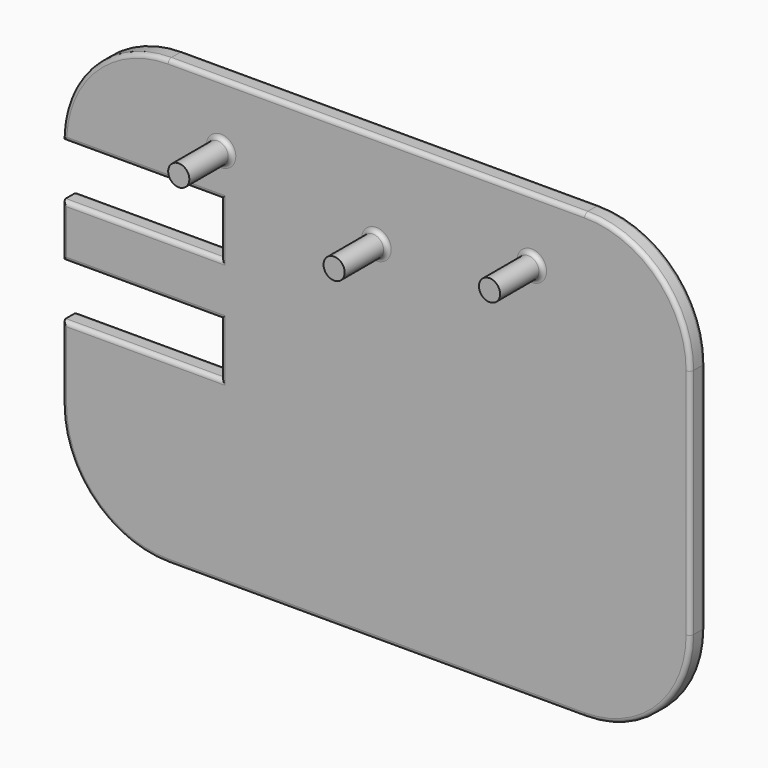
from build123d import *

# Parameters (mm, degrees)
F1_DEPTH = 9
F2_R     = 5
F3_DEPTH = 25
F4_W     = 75
F4_H     = 25
F5_DEPTH = 25
F6_R     = 2


with BuildPart() as f1:
    # F0 (on Front) → F1 (new body)
    with BuildSketch(Plane.XZ):
        with BuildLine():
            Line((76.488592, 167.738855), (-120.511408, 167.738855))
            ThreePointArc((-120.511408, 167.738855), (-155.866747, 153.094194), (-170.511408, 117.738855))
            Line((-170.511408, 117.738855), (-170.511408, 7.738855))
            ThreePointArc((-170.511408, 7.738855), (-155.866747, -27.616484), (-120.511408, -42.261145))
            Line((-120.511408, -42.261145), (76.488592, -42.261145))
            ThreePointArc((76.488592, -42.261145), (111.843931, -27.616484), (126.488592, 7.738855))
            Line((126.488592, 7.738855), (126.488592, 117.738855))
            ThreePointArc((126.488592, 117.738855), (111.843931, 153.094194), (76.488592, 167.738855))
        make_face()
    extrude(amount=F1_DEPTH)

    # F2 (on face) → F3 (join)
    with BuildSketch(Plane.XZ.offset(9)):
        with Locations((-95.511408, 137.738855)):
            Circle(F2_R)
        with Locations((-22.011408, 122.814043)):
            Circle(F2_R)
        with Locations((51.488592, 137.738855)):
            Circle(F2_R)
    extrude(amount=F3_DEPTH)

    # F4 (on face) → F5 (cut)
    with BuildSketch(Plane.XZ.offset(9)):
        with Locations((-133.011408, 105.238855)):
            Rectangle(F4_W, F4_H)
        with Locations((-133.011408, 55.238855)):
            Rectangle(F4_W, F4_H)
    extrude(amount=-F5_DEPTH, mode=Mode.SUBTRACT)

    # F6
    f6_edges = [f1.edges().sort_by_distance(p)[0] for p in [
        (111.843931, -9, -27.616484),
        (-22.011408, -9, -42.261145),
        (-155.866747, -9, -27.616484),
        (-170.511408, -9, 25.238855),
        (-133.011408, -9, 42.738855),
        (-95.511408, -9, 55.238855),
        (-133.011408, -9, 67.738855),
        (-170.511408, -9, 80.238855),
        (-133.011408, -9, 92.738855),
        (-95.511408, -9, 105.238855),
        (-133.011408, -9, 117.738855),
        (-155.866747, -9, 153.094194),
        (-22.011408, -9, 167.738855),
        (111.843931, -9, 153.094194),
        (126.488592, -9, 62.738855),
        (-27.011408, -9, 122.814043),
        (-100.511408, -9, 137.738855),
        (46.488592, -9, 137.738855),
        (111.843931, 0, -27.616484),
        (-22.011408, 0, -42.261145),
        (-155.866747, 0, -27.616484),
        (-170.511408, 0, 25.238855),
        (-133.011408, 0, 42.738855),
        (-95.511408, 0, 55.238855),
        (-133.011408, 0, 67.738855),
        (-170.511408, 0, 80.238855),
        (-133.011408, 0, 92.738855),
        (-95.511408, 0, 105.238855),
        (-133.011408, 0, 117.738855),
        (-155.866747, 0, 153.094194),
        (-22.011408, 0, 167.738855),
        (111.843931, 0, 153.094194),
        (126.488592, 0, 62.738855),
    ]]
    fillet(f6_edges, radius=F6_R)


solid = f1.part
